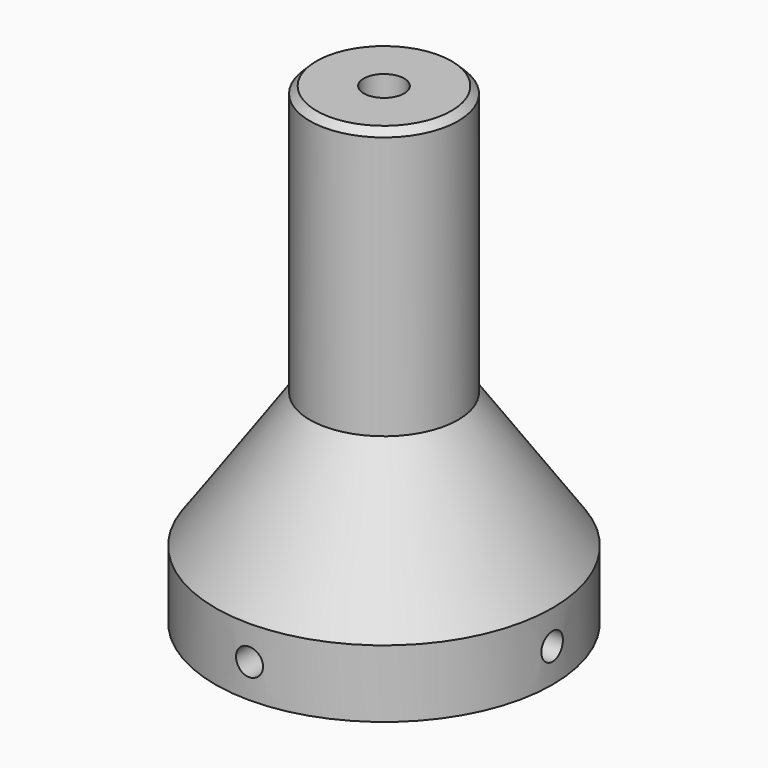
from build123d import *

# Parameters (mm, degrees)
F0_R      = 12.5
F0_R_2    = 10
F1_DEPTH  = 5
F4_R      = 12.5
F3_R      = 5.5
F6_R      = 10
F7_R      = 3
F9_R      = 5.5
F10_DEPTH = 20
F11_SIZE  = 0.5
F12_R     = 1
F13_DEPTH = 25
F14_R     = 1
F15_DEPTH = 25
F16_R     = 1.5
F17_DEPTH = 35.001


with BuildPart() as f1:
    # F0 (on Top) → F1 (new body)
    with BuildSketch(Plane.XY):
        Circle(F0_R)
        Circle(F0_R_2, mode=Mode.SUBTRACT)
    extrude(amount=F1_DEPTH)

    # F4 (on face) → F5 section 0
    with BuildSketch(Plane.XY.offset(5)):
        Circle(F4_R)
    # F3 (on offset) → F5 section 1
    with BuildSketch(Plane.XY.offset(15)):
        Circle(F3_R)
    loft()

    # F6 (on face) → F8 section 0
    with BuildSketch(Plane.XY.offset(5)):
        Circle(F6_R)
    # F7 (on offset) → F8 section 1
    with BuildSketch(Plane.XY.offset(15)):
        Circle(F7_R)
    loft(mode=Mode.SUBTRACT)

    # F9 (on face) → F10 (join)
    with BuildSketch(Plane.XY.offset(15)):
        Circle(F9_R)
    extrude(amount=F10_DEPTH)

    # F11
    f11_edges = [f1.edges().sort_by_distance(p)[0] for p in [
        (-5.5, 0, 35),
    ]]
    chamfer(f11_edges, length=F11_SIZE)

    # F12 (on Right) → F13 (cut, symmetric)
    with BuildSketch(Plane.YZ):
        with Locations((0, 2.5)):
            Circle(F12_R)
    extrude(amount=F13_DEPTH, both=True, mode=Mode.SUBTRACT)

    # F14 (on Front) → F15 (cut, symmetric)
    with BuildSketch(Plane.XZ):
        with Locations((0, 2.5)):
            Circle(F14_R)
    extrude(amount=F15_DEPTH, both=True, mode=Mode.SUBTRACT)

    # F16 (on face) → F17 (cut, through all)
    with BuildSketch(Plane.XY.offset(35)):
        Circle(F16_R)
    extrude(amount=-F17_DEPTH, mode=Mode.SUBTRACT)


solid = f1.part
